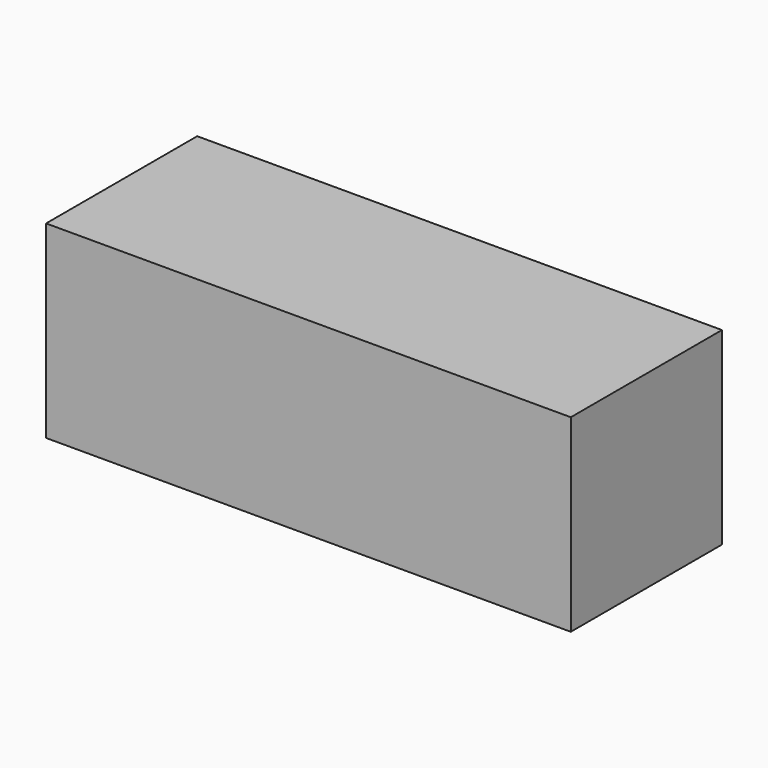
from build123d import *

# Parameters (mm, degrees)
SKETCH_W  = 18
SKETCH_H  = 18
PAD_DEPTH = 50


with BuildPart() as part:
    # Sketch → Pad (new body)
    with BuildSketch(Plane.YZ):
        with Locations((9, 9)):
            Rectangle(SKETCH_W, SKETCH_H)
    extrude(amount=PAD_DEPTH)


solid = part.part
